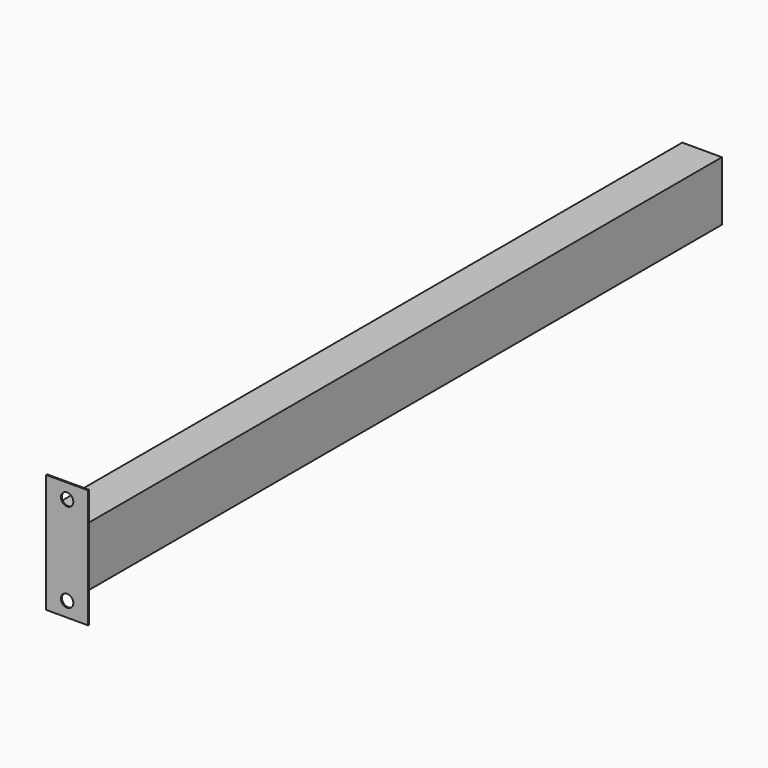
from build123d import *

# Parameters (mm, degrees)
F0_W     = 50.8
F0_H     = 76.2
F0_W_2   = 47.625
F0_H_2   = 73.025
F1_DEPTH = 1016
F2_W     = 53.975
F2_H     = 152.4
F3_DEPTH = 1.5875
F4_R     = 7.9375
F5_DEPTH = 1.5875


with BuildPart() as f1:
    # F0 (on Front) → F1 (new body)
    with BuildSketch(Plane.XZ):
        with Locations((25.4, 38.1)):
            Rectangle(F0_W, F0_H)
        with Locations((25.4, 38.1)):
            Rectangle(F0_W_2, F0_H_2, mode=Mode.SUBTRACT)
    extrude(amount=-F1_DEPTH)

    # F2 (on face) → F3 (join)
    with BuildSketch(Plane.XZ):
        with Locations((25.4, 38.1)):
            Rectangle(F2_W, F2_H)
    extrude(amount=F3_DEPTH)

    # F4 (on face) → F5 (cut, through all)
    with BuildSketch(Plane.XZ.offset(1.5875)):
        with Locations((25.4, 95.25)):
            Circle(F4_R)
        with Locations((25.4, -19.05)):
            Circle(F4_R)
    extrude(amount=-F5_DEPTH, mode=Mode.SUBTRACT)


solid = f1.part
